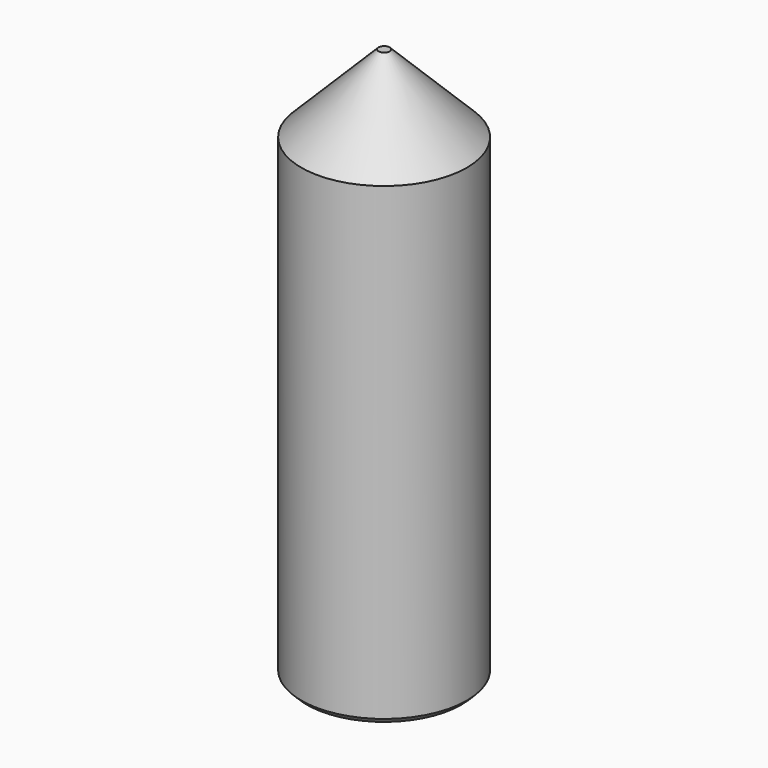
from build123d import *

# Parameters (mm, degrees)
SKETCH025_R     = 1.5
PAD012_DEPTH    = 10
CHAMFER_SIZE    = 1.4
POCKET013_DEPTH = 1.5
CHAMFER001_SIZE = 0.1


with BuildPart() as part:
    # Sketch025 → Pad012 (new body)
    with BuildSketch(Plane.XY):
        Circle(SKETCH025_R)
    extrude(amount=PAD012_DEPTH)

    # Chamfer
    chamfer_edges = [part.edges().sort_by_distance(p)[0] for p in [
        (-1.5, 0, 10),
    ]]
    chamfer(chamfer_edges, length=CHAMFER_SIZE)

    # Sketch026 → Pocket013 (cut)
    with BuildSketch(Plane.XY):
        Polygon((0.433013, -0.75), (0.866025, 0), (0.433013, 0.75), (-0.433013, 0.75), (-0.866025, 0), (-0.433013, -0.75), align=None)
    extrude(amount=POCKET013_DEPTH, mode=Mode.SUBTRACT)

    # Chamfer001
    chamfer001_edges = [part.edges().sort_by_distance(p)[0] for p in [
        (-1.5, 0, 0),
    ]]
    chamfer(chamfer001_edges, length=CHAMFER001_SIZE)


solid = part.part
